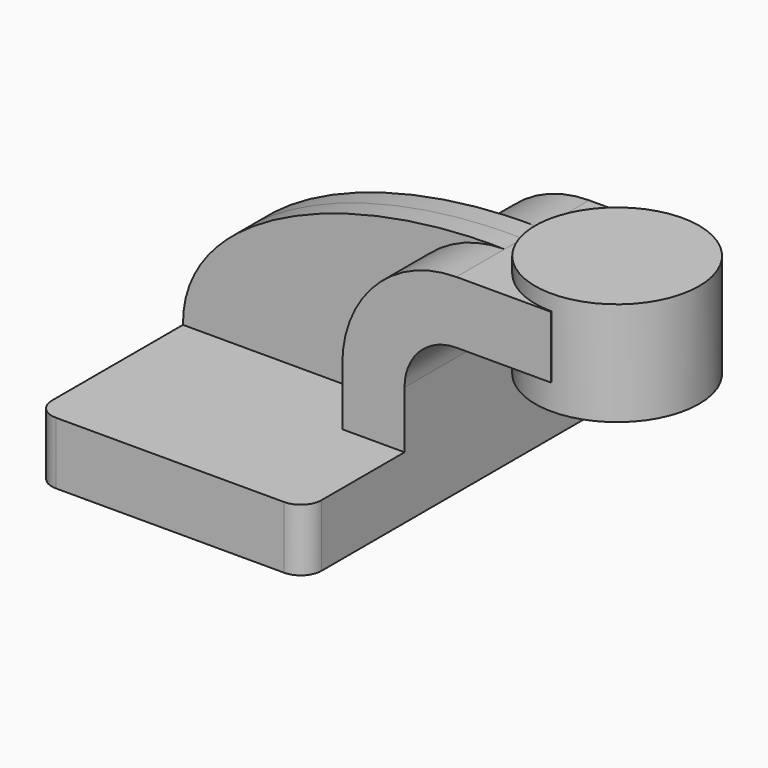
from build123d import *

# Parameters (mm, degrees)
F1_DEPTH = 63.5
F0_W     = 25.7128816724
F0_H     = 19.0500000358
F2_DEPTH = 25.4
F3_DEPTH = 6.985
F5_R     = 6.35


with BuildPart() as f1:
    # F0 (on Front) → F1 (new body, symmetric)
    with BuildSketch(Plane.XZ):
        Polygon((22.2249999642, 9.525), (-41.275, 9.525), (-41.275, -9.525), (41.275, -9.525), (41.275, 9.525), align=None)
    extrude(amount=F1_DEPTH, both=True)

    # F0 (on Front) → F2 (join, symmetric)
    with BuildSketch(Plane.XZ):
        with BuildLine():
            Line((22.2249999642, 27.0002), (22.2249999642, 9.525))
            Line((22.2249999642, 9.525), (41.275, 9.525))
            Line((41.275, 9.525), (41.275, 27.0002))
            ThreePointArc((41.275, 27.0002), (45.9246798487, 38.2255201513), (57.15, 42.8752))
            Line((57.15, 42.8752), (60.325, 42.8752))
            Line((60.325, 42.8752), (60.325, 61.9252000358))
            Line((60.325, 61.9252000358), (57.15, 61.9252000358))
            ThreePointArc((57.15, 61.9252000358), (32.4542956418, 51.6959043582), (22.2249999642, 27.0002))
        make_face()
        with Locations((73.1814408362, 52.4002000179)):
            Rectangle(F0_W, F0_H)
    extrude(amount=F2_DEPTH, both=True)

    # F0 (on Front) → F3 (join, symmetric)
    with BuildSketch(Plane.XZ):
        with BuildLine():
            add(Edge.make_bspline(
                [(-41.275, 9.525), (-41.6814014316, 41.938919574), (8.042903617, 63.0534738302), (57.15, 61.9252000358)],
                knots=[0, 0, 0, 0, 111.5045361803, 111.5045361803, 111.5045361803, 111.5045361803], degree=3))
            Line((-41.275, 9.525), (22.2249999642, 9.525))
            Line((22.2249999642, 9.525), (22.2249999642, 27.0002))
            ThreePointArc((22.2249999642, 27.0002), (32.4542956418, 51.6959043582), (57.15, 61.9252000358))
        make_face()
    extrude(amount=F3_DEPTH, both=True)

    # F5
    f5_edges = [f1.edges().sort_by_distance(p)[0] for p in [
        (-41.275, -63.5, 0),
        (41.275, -63.5, 0),
        (41.275, 63.5, 0),
        (-41.275, 63.5, 0),
    ]]
    fillet(f5_edges, radius=F5_R)


with BuildPart() as f4:
    # F0 (on Front) → F4 (revolve)
    with BuildSketch(Plane.XZ):
        Polygon((86.0378816724, 66.675), (86.0378816724, 61.9252000358), (86.0378816724, 42.8752), (86.0378816724, 34.925), (111.125, 34.925), (111.125, 66.675), align=None)
    revolve(axis=Axis((86.0378816724, 0, 50.8), (0, 0, -1)))


solid = Compound([f1.part, f4.part])
